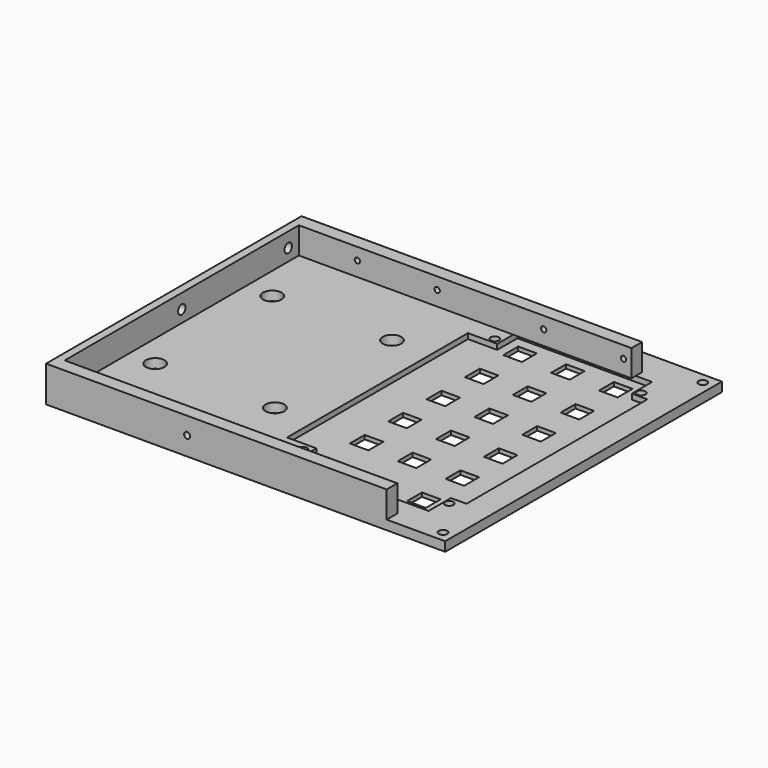
from build123d import *

# Parameters (mm, degrees)
SKETCH013_R     = 3.5
SKETCH013_R_2   = 1.6
SKETCH013_W     = 7
SKETCH013_H     = 7
PAD004_DEPTH    = 3.5
PAD_DEPTH       = 10
SKETCH015_R     = 1.15
POCKET005_DEPTH = 5
SKETCH004_R     = 1
POCKET006_DEPTH = 5
SKETCH014_R     = 1.75
POCKET007_DEPTH = 5
POCKET_DEPTH    = 2


with BuildPart() as part:
    # Sketch013 → Pad004 (new body)
    with BuildSketch(Plane.XY):
        Polygon((0, 65), (150, 65.000002), (150, -65), (0, -65), align=None)
        with Locations((13, 25)):
            Circle(SKETCH013_R, mode=Mode.SUBTRACT)
        with Locations((58, 25)):
            Circle(SKETCH013_R, mode=Mode.SUBTRACT)
        with Locations((13, -30)):
            Circle(SKETCH013_R, mode=Mode.SUBTRACT)
        with Locations((58, -30)):
            Circle(SKETCH013_R, mode=Mode.SUBTRACT)
        with Locations((146, 61.000002)):
            Circle(SKETCH013_R_2, mode=Mode.SUBTRACT)
        with Locations((146, -61)):
            Circle(SKETCH013_R_2, mode=Mode.SUBTRACT)
        with Locations((81.000022, 44.539576)):
            Circle(SKETCH013_R_2, mode=Mode.SUBTRACT)
        with Locations((136, 44.539576)):
            Circle(SKETCH013_R_2, mode=Mode.SUBTRACT)
        with Locations((80.901087, -45.46037)):
            Circle(SKETCH013_R_2, mode=Mode.SUBTRACT)
        with Locations((135.901066, -45.46037)):
            Circle(SKETCH013_R_2, mode=Mode.SUBTRACT)
        with Locations((90.500022, 44.539576)):
            Rectangle(SKETCH013_W, SKETCH013_H, mode=Mode.SUBTRACT)
        with Locations((108.500011, 44.519789)):
            Rectangle(SKETCH013_W, SKETCH013_H, mode=Mode.SUBTRACT)
        with Locations((126.5, 44.500002)):
            Rectangle(SKETCH013_W, SKETCH013_H, mode=Mode.SUBTRACT)
        with Locations((90.480235, 26.539587)):
            Rectangle(SKETCH013_W, SKETCH013_H, mode=Mode.SUBTRACT)
        with Locations((108.480224, 26.5198)):
            Rectangle(SKETCH013_W, SKETCH013_H, mode=Mode.SUBTRACT)
        with Locations((126.480213, 26.500013)):
            Rectangle(SKETCH013_W, SKETCH013_H, mode=Mode.SUBTRACT)
        with Locations((90.460448, 8.539598)):
            Rectangle(SKETCH013_W, SKETCH013_H, mode=Mode.SUBTRACT)
        with Locations((108.460437, 8.519811)):
            Rectangle(SKETCH013_W, SKETCH013_H, mode=Mode.SUBTRACT)
        with Locations((126.460426, 8.500024)):
            Rectangle(SKETCH013_W, SKETCH013_H, mode=Mode.SUBTRACT)
        with Locations((90.440661, -9.460392)):
            Rectangle(SKETCH013_W, SKETCH013_H, mode=Mode.SUBTRACT)
        with Locations((108.44065, -9.480178)):
            Rectangle(SKETCH013_W, SKETCH013_H, mode=Mode.SUBTRACT)
        with Locations((126.440639, -9.499965)):
            Rectangle(SKETCH013_W, SKETCH013_H, mode=Mode.SUBTRACT)
        with Locations((90.420874, -27.460381)):
            Rectangle(SKETCH013_W, SKETCH013_H, mode=Mode.SUBTRACT)
        with Locations((108.420863, -27.480168)):
            Rectangle(SKETCH013_W, SKETCH013_H, mode=Mode.SUBTRACT)
        with Locations((126.420852, -27.499954)):
            Rectangle(SKETCH013_W, SKETCH013_H, mode=Mode.SUBTRACT)
        with Locations((90.401087, -45.46037)):
            Rectangle(SKETCH013_W, SKETCH013_H, mode=Mode.SUBTRACT)
        with Locations((108.401076, -45.480157)):
            Rectangle(SKETCH013_W, SKETCH013_H, mode=Mode.SUBTRACT)
        with Locations((126.401066, -45.499944)):
            Rectangle(SKETCH013_W, SKETCH013_H, mode=Mode.SUBTRACT)
    extrude(amount=PAD004_DEPTH)

    # Sketch001 → Pad (join)
    with BuildSketch(Plane.XY.offset(3.5)):
        Polygon((0, 55), (3, 55), (128, 55), (128, 50), (3, 50), (3, -60), (128, -60), (128, -65), (3, -65), (0, -65), align=None)
    extrude(amount=PAD_DEPTH)

    # Sketch015 → Pocket005 (cut)
    with BuildSketch(Plane.XZ.offset(65)):
        with Locations((53, 7)):
            Circle(SKETCH015_R)
    extrude(amount=-POCKET005_DEPTH, mode=Mode.SUBTRACT)

    # Sketch004 → Pocket006 (cut, symmetric)
    with BuildSketch(Plane.XZ.offset(-55)):
        with Locations((25, 9)):
            Circle(SKETCH004_R)
        with Locations((95, 9)):
            Circle(SKETCH004_R)
        with Locations((55, 9)):
            Circle(SKETCH004_R)
        with Locations((125, 9)):
            Circle(SKETCH004_R)
    extrude(amount=POCKET006_DEPTH, both=True, mode=Mode.SUBTRACT)

    # Sketch014 → Pocket007 (cut)
    with BuildSketch(Plane.YZ):
        with Locations((45, 8)):
            Circle(SKETCH014_R)
        with Locations((-5, 8)):
            Circle(SKETCH014_R)
        with Locations((-55, 8)):
            Circle(SKETCH014_R)
    extrude(amount=POCKET007_DEPTH, mode=Mode.SUBTRACT)

    # Sketch → Pocket (cut)
    with BuildSketch(Plane.XY.offset(3.5)):
        Polygon((83.55, 52), (134.15, 52), (134.15, 42.5), (140, 42.5), (140, -42.5), (134.15, -42.5), (134.15, -53), (83.55, -53), (83.55, -42.5), (72.55, -42.5), (72.55, 42.5), (83.55, 42.5), align=None)
    extrude(amount=-POCKET_DEPTH, mode=Mode.SUBTRACT)


solid = part.part
